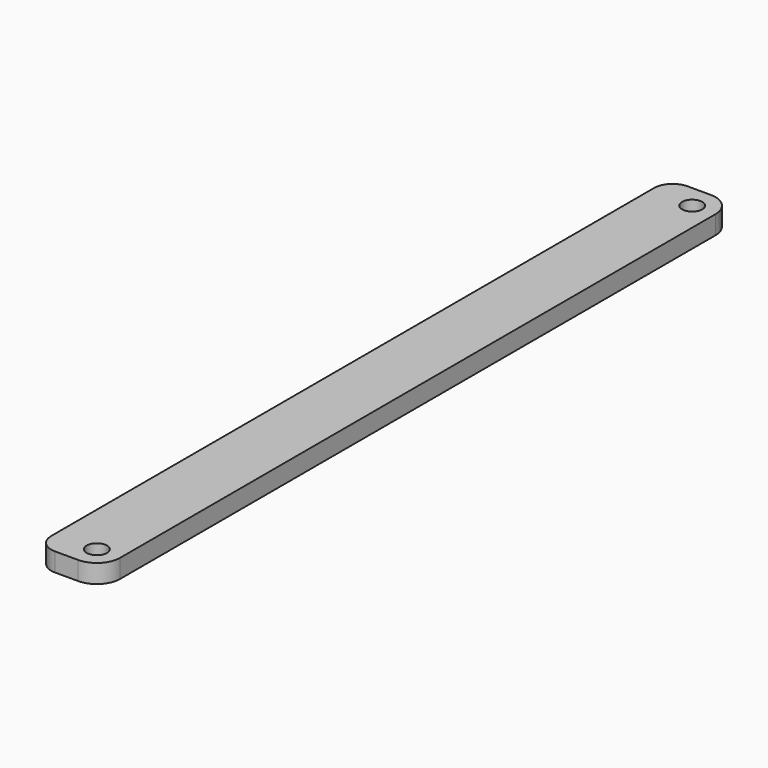
from build123d import *

# Parameters (mm, degrees)
F0_W     = 11.1125
F0_H     = 134.9375
F0_R     = 1.7272
F1_DEPTH = 3.175
F2_R     = 3.96875
F3_R     = 3.175


with BuildPart() as f1:
    # F0 (on Top) → F1 (new body)
    with BuildSketch(Plane.XY):
        with Locations((5.55625, -67.46875)):
            Rectangle(F0_W, F0_H)
        with Locations((7.14375, -130.96875)):
            Circle(F0_R, mode=Mode.SUBTRACT)
        with Locations((7.14375, -3.96875)):
            Circle(F0_R, mode=Mode.SUBTRACT)
    extrude(amount=F1_DEPTH)

    # F2
    f2_edges = [f1.edges().sort_by_distance(p)[0] for p in [
        (11.1125, 0, 1.5875),
        (11.1125, -134.9375, 1.5875),
    ]]
    fillet(f2_edges, radius=F2_R)

    # F3
    f3_edges = [f1.edges().sort_by_distance(p)[0] for p in [
        (0, -134.9375, 1.5875),
        (0, 0, 1.5875),
    ]]
    fillet(f3_edges, radius=F3_R)


solid = f1.part
